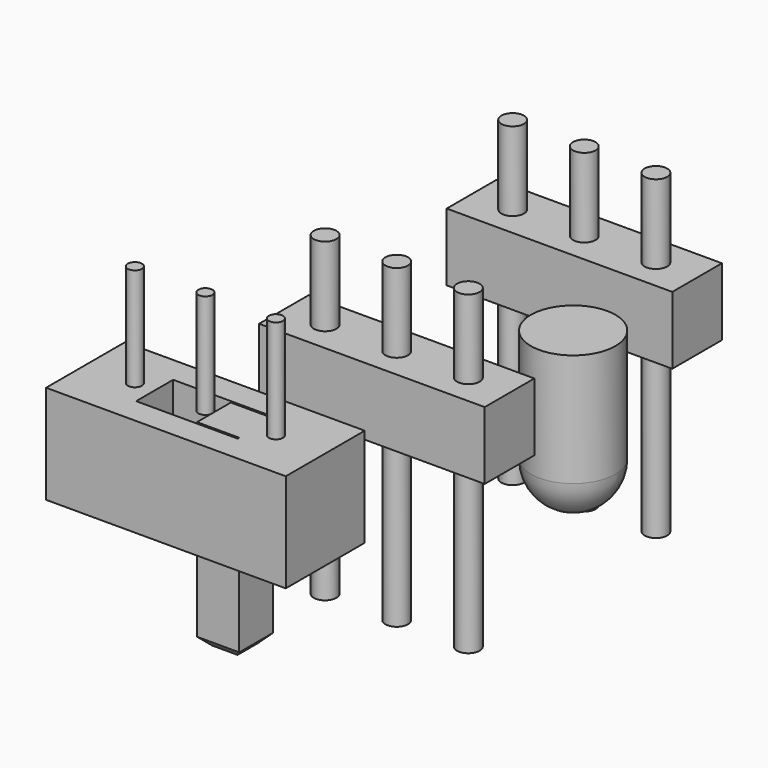
from build123d import *

# Parameters (mm, degrees)
CYLINDER033_R             = 0.4
CYLINDER033_DEPTH         = 11.2
CYLINDER014_R             = 0.4
CYLINDER014_DEPTH         = 11.2
CYLINDER015_R             = 0.4
CYLINDER015_DEPTH         = 11.2
BOX031_W                  = 8
BOX031_H                  = 2.4
BOX031_DEPTH              = 2.2
FUSION034_PLACEMENT_ANGLE = 90
CYLINDER034_R             = 0.4
CYLINDER034_DEPTH         = 11.2
CYLINDER035_R             = 0.4
CYLINDER035_DEPTH         = 11.2
CYLINDER036_R             = 0.4
CYLINDER036_DEPTH         = 11.2
BOX050_W                  = 8
BOX050_H                  = 2.4
BOX050_DEPTH              = 2.2
FUSION035_PLACEMENT_ANGLE = 90
CYLINDER037_R             = 1.5
CYLINDER037_DEPTH         = 4
FUSION036_PLACEMENT_ANGLE = 180
CYLINDER030_R             = 0.25
CYLINDER030_DEPTH         = 3.7
BOX049_W                  = 1.5
BOX049_H                  = 7
BOX049_DEPTH              = 1.5
CHAMFER004_SIZE           = 0.3
CYLINDER032_R             = 0.25
CYLINDER032_DEPTH         = 3.7
CYLINDER031_R             = 0.25
CYLINDER031_DEPTH         = 3.7
SKETCH022_W               = 8.5
SKETCH022_H               = 3.5
SKETCH022_W_2             = 3.6
SKETCH022_H_2             = 1.64
PAD020_DEPTH              = 3.5
FUSION033_PLACEMENT_ANGLE = 90


with BuildPart() as cylinder033:
    # Cylinder033 → Cylinder033 (new body)
    with BuildSketch(Plane(origin=(-51.08, -6, 1.1), x_dir=(1, 0, 0), z_dir=(0, 1, 0))):
        Circle(CYLINDER033_R)
    extrude(amount=CYLINDER033_DEPTH)


with BuildPart() as cylinder014:
    # Cylinder014 → Cylinder014 (new body)
    with BuildSketch(Plane(origin=(-46, -6, 1.1), x_dir=(1, 0, 0), z_dir=(0, 1, 0))):
        Circle(CYLINDER014_R)
    extrude(amount=CYLINDER014_DEPTH)


with BuildPart() as cylinder015:
    # Cylinder015 → Cylinder015 (new body)
    with BuildSketch(Plane(origin=(-48.54, -6, 1.1), x_dir=(1, 0, 0), z_dir=(0, 1, 0))):
        Circle(CYLINDER015_R)
    extrude(amount=CYLINDER015_DEPTH)


with BuildPart() as obj1:
    # Box031 → Box031 (new body)
    with BuildSketch(Plane(origin=(-52.54, 0, 0), x_dir=(1, 0, 0), z_dir=(0, 0, 1))):
        with Locations((4, 1.2)):
            Rectangle(BOX031_W, BOX031_H)
    extrude(amount=BOX031_DEPTH)

    # Fusion034: union Cylinder033, Cylinder014, Cylinder015
    add(cylinder033.part)
    add(cylinder014.part)
    add(cylinder015.part)


with BuildPart() as obj1_1:
    # Fusion034 placement: moved
    add(obj1.part.moved(Location((85.28, 7.57, -3))).rotate(Axis((85.28, 7.57, -3), (1, 0, 0)), FUSION034_PLACEMENT_ANGLE))


with BuildPart() as cylinder034:
    # Cylinder034 → Cylinder034 (new body)
    with BuildSketch(Plane(origin=(-51.08, -6, 1.1), x_dir=(1, 0, 0), z_dir=(0, 1, 0))):
        Circle(CYLINDER034_R)
    extrude(amount=CYLINDER034_DEPTH)


with BuildPart() as cylinder035:
    # Cylinder035 → Cylinder035 (new body)
    with BuildSketch(Plane(origin=(-46, -6, 1.1), x_dir=(1, 0, 0), z_dir=(0, 1, 0))):
        Circle(CYLINDER035_R)
    extrude(amount=CYLINDER035_DEPTH)


with BuildPart() as cylinder036:
    # Cylinder036 → Cylinder036 (new body)
    with BuildSketch(Plane(origin=(-48.54, -6, 1.1), x_dir=(1, 0, 0), z_dir=(0, 1, 0))):
        Circle(CYLINDER036_R)
    extrude(amount=CYLINDER036_DEPTH)


with BuildPart() as obj2:
    # Box050 → Box050 (new body)
    with BuildSketch(Plane(origin=(-52.54, 0, 0), x_dir=(1, 0, 0), z_dir=(0, 0, 1))):
        with Locations((4, 1.2)):
            Rectangle(BOX050_W, BOX050_H)
    extrude(amount=BOX050_DEPTH)

    # Fusion035: union Cylinder034, Cylinder035, Cylinder036
    add(cylinder034.part)
    add(cylinder035.part)
    add(cylinder036.part)


with BuildPart() as obj2_1:
    # Fusion035 placement: moved
    add(obj2.part.moved(Location((85.54, -1.07, -3))).rotate(Axis((85.54, -1.07, -3), (1, 0, 0)), FUSION035_PLACEMENT_ANGLE))


with BuildPart() as sphere001:
    # Sphere001 → Sphere001 (revolve)
    with BuildSketch(Plane(origin=(39.8, 2.1, 6.8), x_dir=(1, 0, 0), z_dir=(0, -1, 0))):
        with BuildLine():
            ThreePointArc((0, -1.5), (1.5, 0), (0, 1.5))
            Line((0, 1.5), (0, -1.5))
        make_face()
    revolve(axis=Axis((39.8, 2.1, 6.8), (0, 0, 1)))


with BuildPart() as led:
    # Cylinder037 → Cylinder037 (new body)
    with BuildSketch(Plane(origin=(39.8, 2.1, 2.8), x_dir=(1, 0, 0), z_dir=(0, 0, 1))):
        Circle(CYLINDER037_R)
    extrude(amount=CYLINDER037_DEPTH)

    # Fusion036: union Sphere001
    add(sphere001.part)


with BuildPart() as led_1:
    # Fusion036 placement: moved
    add(led.part.moved(Location((0, 4.25, 2))).rotate(Axis((0, 4.25, 2), (1, 0, 0)), FUSION036_PLACEMENT_ANGLE))


with BuildPart() as cylinder030:
    # Cylinder030 → Cylinder030 (new body)
    with BuildSketch(Plane(origin=(0, -0.05, 0), x_dir=(1, 0, 0), z_dir=(0, 1, 0))):
        Circle(CYLINDER030_R)
    extrude(amount=CYLINDER030_DEPTH)


with BuildPart() as chamfer004:
    # Box049 → Box049 (new body)
    with BuildSketch(Plane(origin=(0.3, -7, -0.75), x_dir=(1, 0, 0), z_dir=(0, 0, 1))):
        with Locations((0.75, 3.5)):
            Rectangle(BOX049_W, BOX049_H)
    extrude(amount=BOX049_DEPTH)

    # Chamfer004
    chamfer004_edges = [chamfer004.edges().sort_by_distance(p)[0] for p in [
        (0.3, -7, 0),
        (1.8, -7, 0),
        (1.05, -7, -0.75),
        (1.05, -7, 0.75),
    ]]
    chamfer(chamfer004_edges, length=CHAMFER004_SIZE)


with BuildPart() as cylinder032:
    # Cylinder032 → Cylinder032 (new body)
    with BuildSketch(Plane(origin=(-2.5, -0.05, 0), x_dir=(1, 0, 0), z_dir=(0, 1, 0))):
        Circle(CYLINDER032_R)
    extrude(amount=CYLINDER032_DEPTH)


with BuildPart() as cylinder031:
    # Cylinder031 → Cylinder031 (new body)
    with BuildSketch(Plane(origin=(2.5, -0.05, 0), x_dir=(1, 0, 0), z_dir=(0, 1, 0))):
        Circle(CYLINDER031_R)
    extrude(amount=CYLINDER031_DEPTH)


with BuildPart() as fusion037:
    # Sketch022 → Pad020 (new body)
    with BuildSketch(Plane.XZ):
        Rectangle(SKETCH022_W, SKETCH022_H)
        Rectangle(SKETCH022_W_2, SKETCH022_H_2, mode=Mode.SUBTRACT)
    extrude(amount=PAD020_DEPTH)

    # Fusion033: union Cylinder030, Chamfer004, Cylinder032, Cylinder031
    add(cylinder030.part)
    add(chamfer004.part)
    add(cylinder032.part)
    add(cylinder031.part)


with BuildPart() as fusion037_1:
    # Fusion033 placement: moved
    add(fusion037.part.moved(Location((34.8, -7.9, -0.8))).rotate(Axis((34.8, -7.9, -0.8), (1, 0, 0)), FUSION033_PLACEMENT_ANGLE))

    # Fusion037: union obj1, obj2, LED
    add(obj1_1.part)
    add(obj2_1.part)
    add(led_1.part)


with BuildPart() as fusion037_2:
    # Fusion037 placement: moved
    add(fusion037_1.part.moved(Location((0, 0, -5.7))))


solid = fusion037_2.part
